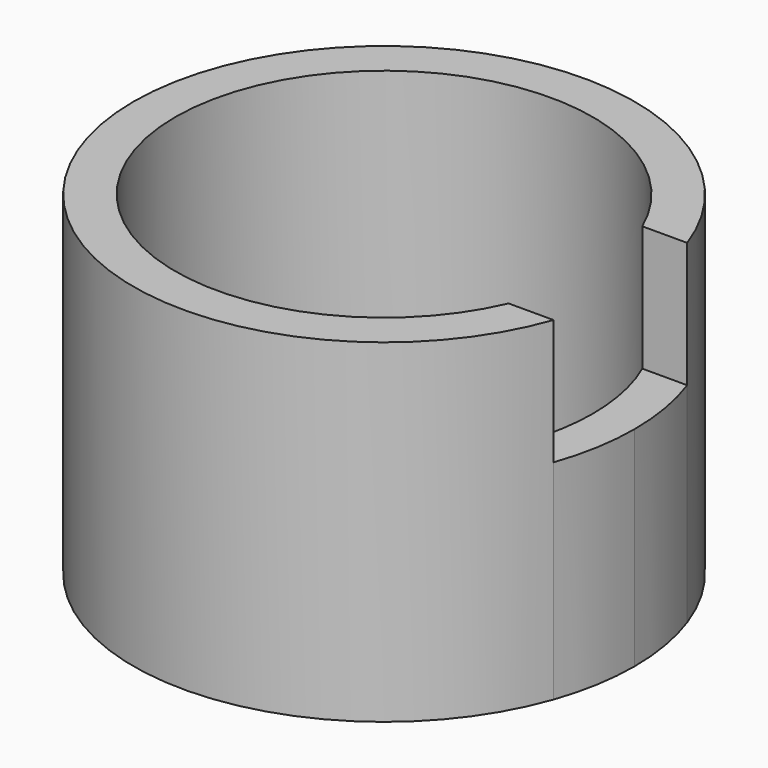
from build123d import *

# Parameters (mm, degrees)
F1_DEPTH = 40
F2_DEPTH = 25


with BuildPart() as f1:
    # F0 (on Top) → F1 (new body)
    with BuildSketch(Plane.XY):
        with BuildLine():
            Line((52.912878, 40), (58.284271, 40))
            ThreePointArc((58.284271, 40), (0, 30), (58.284271, 20))
            Line((58.284271, 20), (52.912878, 20))
            ThreePointArc((52.912878, 20), (5, 30), (52.912878, 40))
        make_face()
    extrude(amount=F1_DEPTH)

    # F0 (on Top) → F2 (join)
    with BuildSketch(Plane.XY):
        with BuildLine():
            Line((52.912878, 40), (58.284271, 40))
            ThreePointArc((58.284271, 40), (0, 30), (58.284271, 20))
            Line((58.284271, 20), (52.912878, 20))
            ThreePointArc((52.912878, 20), (5, 30), (52.912878, 40))
        make_face()
        with BuildLine():
            ThreePointArc((60, 30), (59.567957, 35.073059), (58.284271, 40))
            Line((58.284271, 40), (52.912878, 40))
            ThreePointArc((52.912878, 40), (54.472658, 35.107741), (55, 30))
            ThreePointArc((55, 30), (54.472658, 24.892259), (52.912878, 20))
            Line((52.912878, 20), (58.284271, 20))
            ThreePointArc((58.284271, 20), (59.567957, 24.926941), (60, 30))
        make_face()
    extrude(amount=F2_DEPTH)


solid = f1.part
